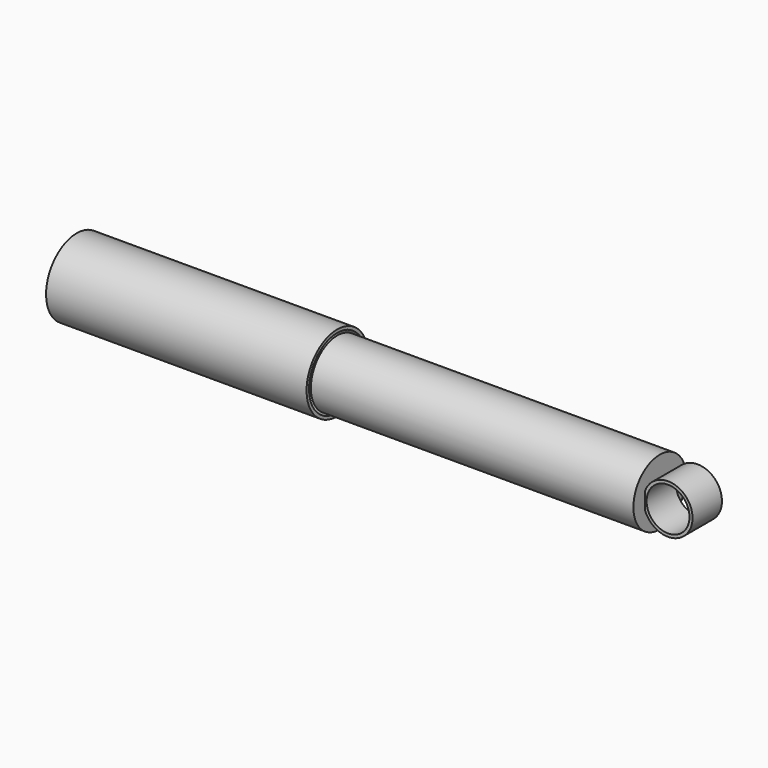
from build123d import *

# Parameters (mm, degrees)
F0_W     = 12
F0_H     = 4
F0_W_2   = 2
F0_H_2   = 12.5
F0_H_3   = 7
F0_H_4   = 19.5
F2_R     = 16
F2_R_2   = 14
F3_DEPTH = 12


with BuildPart() as f1:
    # F0 (on Front) → F1 (revolve)
    with BuildSketch(Plane.XZ):
        Polygon((392.5, 21.5), (182, 21.5), (182, 19.5), (184, 19.5), (390.5, 19.5), (392.5, 19.5), align=None)
        with Locations((6, 2)):
            Rectangle(F0_W, F0_H)
        Polygon((12, 4), (12, 0), (14, 0), (14, 23), (12, 23), align=None)
        Polygon((12, 25), (12, 23), (14, 23), (182, 23), (182, 25), align=None)
        with Locations((183, 13.25)):
            Rectangle(F0_W_2, F0_H_2)
        with Locations((183, 3.5)):
            Rectangle(F0_W_2, F0_H_3)
        with Locations((391.5, 9.75)):
            Rectangle(F0_W_2, F0_H_4)
    revolve(axis=Axis((250, 0, 0), (1, 0, 0)))

    # F2 (on Front) → F3 (join, symmetric)
    with BuildSketch(Plane.XZ):
        with Locations((407.5, 0)):
            Circle(F2_R)
        with Locations((407.5, 0)):
            Circle(F2_R_2, mode=Mode.SUBTRACT)
    extrude(amount=F3_DEPTH, both=True)


solid = f1.part
